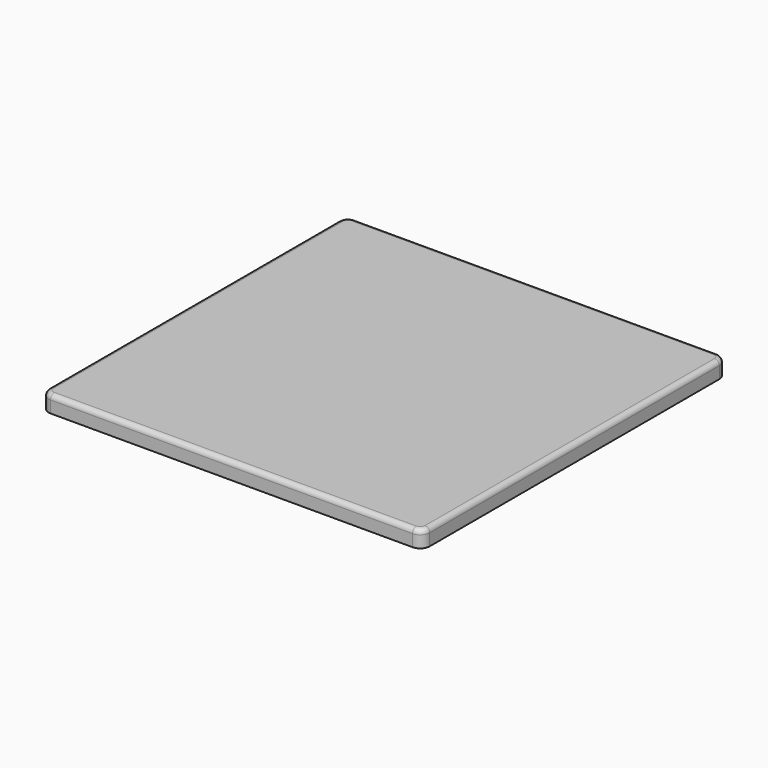
from build123d import *

# Parameters (mm, degrees)
F0_W     = 508
F0_H     = 508
F1_DEPTH = 22.225
F2_R     = 12.7
F3_R     = 6.35


with BuildPart() as f1:
    # F0 (on Top) → F1 (new body)
    with BuildSketch(Plane.XY):
        Rectangle(F0_W, F0_H)
    extrude(amount=F1_DEPTH)

    # F2
    f2_edges = [f1.edges().sort_by_distance(p)[0] for p in [
        (-254, -254, 11.1125),
        (254, -254, 11.1125),
        (254, 254, 11.1125),
        (-254, 254, 11.1125),
    ]]
    fillet(f2_edges, radius=F2_R)

    # F3
    f3_edges = [f1.edges().sort_by_distance(p)[0] for p in [
        (0, -254, 22.225),
    ]]
    fillet(f3_edges, radius=F3_R)


solid = f1.part
